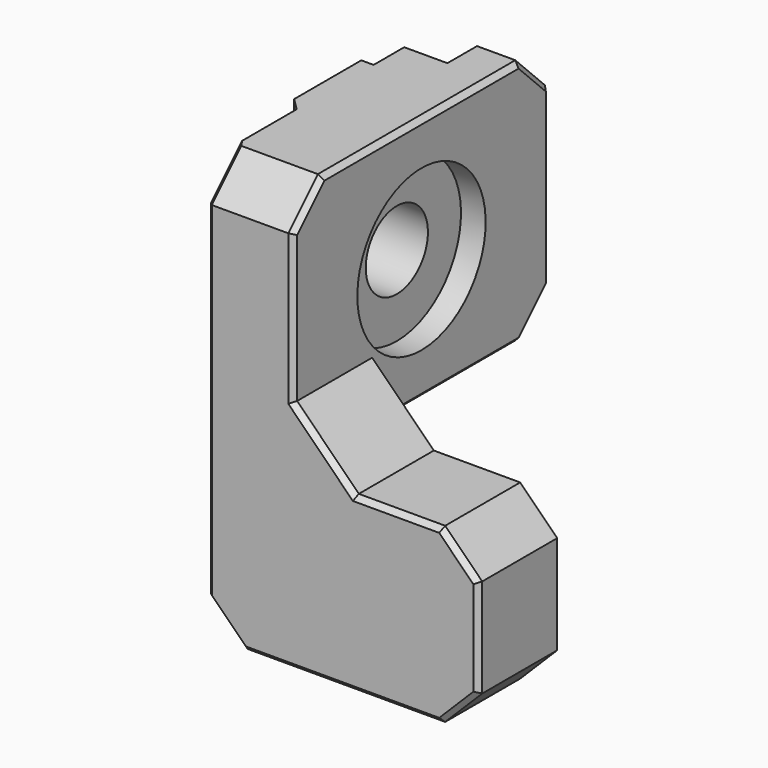
from build123d import *

# Parameters (mm, degrees)
CYLINDER_R        = 4.2
CYLINDER_DEPTH    = 10
CYLINDER001_R     = 6.5
CYLINDER001_DEPTH = 10
CYLINDER002_R     = 3.15
CYLINDER002_DEPTH = 10
BOX002_W          = 3.5
BOX002_H          = 8
BOX002_DEPTH      = 20
BOX001_W          = 7
BOX001_H          = 26
BOX001_DEPTH      = 20
CHAMFER004_SIZE   = 3
BOX003_W          = 2
BOX003_H          = 7.8
BOX003_DEPTH      = 20
CHAMFER003_SIZE   = 1
BOX_W             = 22
BOX_H             = 8
BOX_DEPTH         = 14
CHAMFER_SIZE      = 3
CHAMFER005_SIZE   = 5
CHAMFER006_SIZE   = 0.4


with BuildPart() as cylinder:
    # Cylinder → Cylinder (new body)
    with BuildSketch(Plane(origin=(14, 4, 7), x_dir=(1, 0, 0), z_dir=(0, 1, 0))):
        Circle(CYLINDER_R)
    extrude(amount=CYLINDER_DEPTH)


with BuildPart() as cylinder001:
    # Cylinder001 → Cylinder001 (new body)
    with BuildSketch(Plane(origin=(5, 15, 24), x_dir=(0, 0, -1), z_dir=(1, 0, 0))):
        Circle(CYLINDER001_R)
    extrude(amount=CYLINDER001_DEPTH)


with BuildPart() as fusion001:
    # Cylinder002 → Cylinder002 (new body)
    with BuildSketch(Plane(origin=(-2, 15, 24), x_dir=(0, 0, -1), z_dir=(1, 0, 0))):
        Circle(CYLINDER002_R)
    extrude(amount=CYLINDER002_DEPTH)

    # Fusion001: union Cylinder001
    add(cylinder001.part)


with BuildPart() as cube002:
    # Box002 → Box002 (new body)
    with BuildSketch(Plane(origin=(0, 22, 14), x_dir=(1, 0, 0), z_dir=(0, 0, 1))):
        with Locations((1.75, 4)):
            Rectangle(BOX002_W, BOX002_H)
    extrude(amount=BOX002_DEPTH)


with BuildPart() as chamfer004:
    # Box001 → Box001 (new body)
    with BuildSketch(Plane(origin=(0, 2, 14), x_dir=(1, 0, 0), z_dir=(0, 0, 1))):
        with Locations((3.5, 13)):
            Rectangle(BOX001_W, BOX001_H)
    extrude(amount=BOX001_DEPTH)

    # Cut: cut Cube002
    add(cube002.part, mode=Mode.SUBTRACT)

    # Chamfer004
    chamfer004_edges = [chamfer004.edges().sort_by_distance(p)[0] for p in [
        (5.25, 28, 34),
        (3.5, 2, 34),
        (5.25, 28, 14),
    ]]
    chamfer(chamfer004_edges, length=CHAMFER004_SIZE)


with BuildPart() as chamfer003:
    # Box003 → Box003 (new body)
    with BuildSketch(Plane(origin=(-1, 11.1, 14), x_dir=(1, 0, 0), z_dir=(0, 0, 1))):
        with Locations((1, 3.9)):
            Rectangle(BOX003_W, BOX003_H)
    extrude(amount=BOX003_DEPTH)

    # Chamfer003
    chamfer003_edges = [chamfer003.edges().sort_by_distance(p)[0] for p in [
        (-1, 11.1, 24),
    ]]
    chamfer(chamfer003_edges, length=CHAMFER003_SIZE)


with BuildPart() as chamfer006:
    # Box → Box (new body)
    with BuildSketch(Plane(origin=(0, 2, 0), x_dir=(1, 0, 0), z_dir=(0, 0, 1))):
        with Locations((11, 4)):
            Rectangle(BOX_W, BOX_H)
    extrude(amount=BOX_DEPTH)

    # Chamfer
    chamfer_edges = [chamfer006.edges().sort_by_distance(p)[0] for p in [
        (0, 6, 0),
        (22, 6, 14),
        (22, 6, 0),
    ]]
    chamfer(chamfer_edges, length=CHAMFER_SIZE)

    # Fusion: union Chamfer004, Chamfer003
    add(chamfer004.part)
    add(chamfer003.part)

    # Chamfer005
    chamfer005_edges = [chamfer006.edges().sort_by_distance(p)[0] for p in [
        (7, 6, 14),
    ]]
    chamfer(chamfer005_edges, length=CHAMFER005_SIZE)

    # Cut010011008009003016026008002: cut Fusion001
    add(fusion001.part, mode=Mode.SUBTRACT)

    # Cut010011008009003016026008003: cut Cylinder
    add(cylinder.part, mode=Mode.SUBTRACT)

    # Chamfer006
    chamfer006_edges = [chamfer006.edges().sort_by_distance(p)[0] for p in [
        (15.5, 2, 14),
        (20.5, 2, 12.5),
        (22, 2, 7),
        (20.5, 2, 1.5),
        (11, 2, 0),
        (1.5, 2, 1.5),
        (9.8, 10, 7),
        (9.5, 2, 16.5),
        (7, 2, 25),
        (7, 3.5, 32.5),
        (7, 15, 34),
        (7, 17.5, 14),
        (7, 26.5, 32.5),
        (7, 26.5, 15.5),
        (7, 28, 24),
        (0, 3.5, 32.5),
        (0, 2, 17),
    ]]
    chamfer(chamfer006_edges, length=CHAMFER006_SIZE)


solid = chamfer006.part
